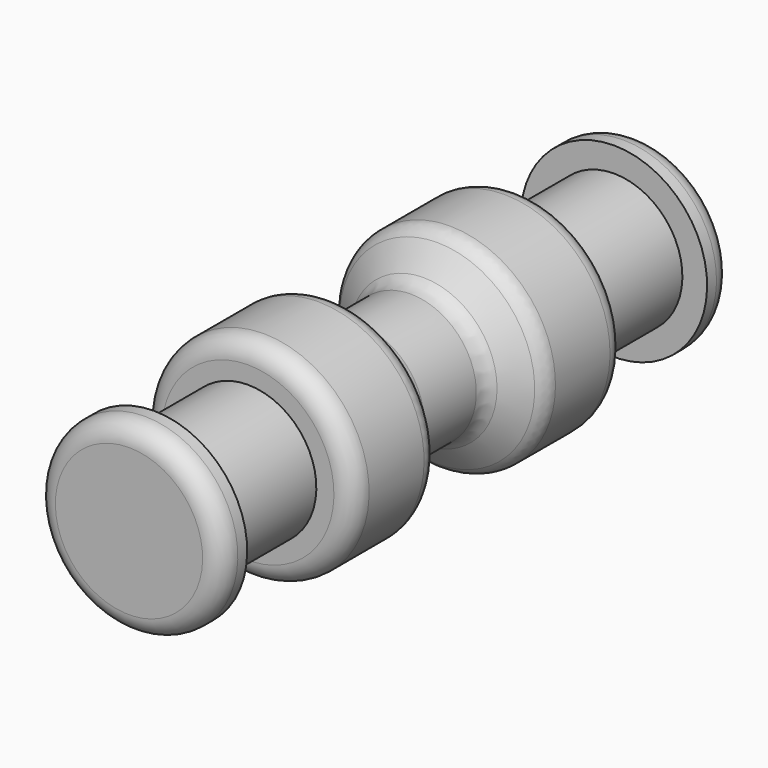
from build123d import *

# Parameters (mm, degrees)
F2_R = 5


with BuildPart() as f1:
    # F0 (on Right) → F1 (revolve)
    with BuildSketch(Plane.YZ):
        Polygon((-81.762466, 23.821083), (-81.762466, 0), (81.237534, 0), (81.237534, 23.821083), (73.237534, 23.821083), (73.237534, 17.5), (43.237534, 17.5), (43.237534, 27), (18.237534, 27), (10.821289, 16.777731), (-10.811986, 16.777731), (-18.762466, 27), (-43.762466, 27), (-43.762466, 17.5), (-73.762466, 17.5), (-73.762466, 23.821083), align=None)
    revolve(axis=Axis((0, -0.262466, 0), (0, 1, 0)))

    # F2
    f2_edges = [f1.edges().sort_by_distance(p)[0] for p in [
        (0, -81.762466, -23.821083),
        (0, -43.762466, -27),
        (0, -18.762466, -27),
        (0, -10.811986, -16.777731),
        (0, 10.821289, -16.777731),
        (0, 18.237534, -27),
        (0, 43.237534, -27),
        (0, 81.237534, -23.821083),
    ]]
    fillet(f2_edges, radius=F2_R)


solid = f1.part
